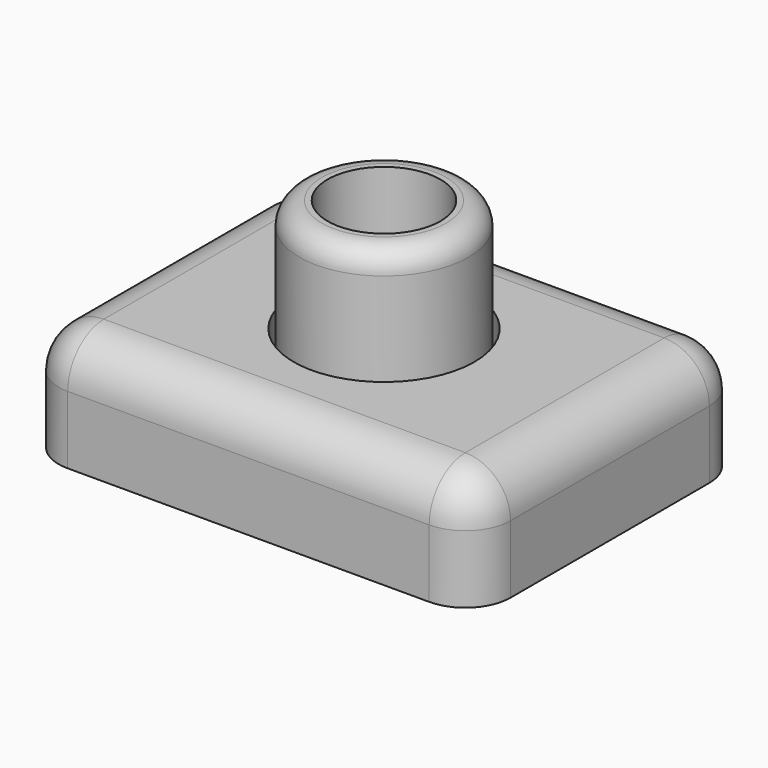
from build123d import *

# Parameters (mm, degrees)
F0_W     = 50.8
F0_H     = 38.1
F0_R     = 10.16
F1_DEPTH = 12.7
F0_R_2   = 9.525
F2_DEPTH = 25.4
F3_R     = 5.08
F4_R     = 2.54
F5_R     = 5.08
F6_T     = -1.27
F7_R     = 2.54
F8_R     = 6.35
F9_DEPTH = 25.401


with BuildPart() as f1:
    # F0 (on Top) → F1 (new body)
    with BuildSketch(Plane.XY):
        Rectangle(F0_W, F0_H)
        Circle(F0_R, mode=Mode.SUBTRACT)
    extrude(amount=F1_DEPTH)

    # F3
    f3_edges = [f1.edges().sort_by_distance(p)[0] for p in [
        (25.4, -19.05, 6.35),
        (25.4, 19.05, 6.35),
        (-25.4, -19.05, 6.35),
        (-25.4, 19.05, 6.35),
    ]]
    fillet(f3_edges, radius=F3_R)

    # F5
    f5_edges = [f1.edges().sort_by_distance(p)[0] for p in [
        (25.4, 0, 12.7),
    ]]
    fillet(f5_edges, radius=F5_R)

    # F6
    f6_openings = [f1.faces().sort_by_distance(p)[0] for p in [
        (0, -18.415, 0),
    ]]
    offset(amount=F6_T, openings=f6_openings)

    # F7
    f7_edges = [f1.edges().sort_by_distance(p)[0] for p in [
        (-11.43, 0, 11.43),
    ]]
    fillet(f7_edges, radius=F7_R)


with BuildPart() as f2:
    # F0 (on Top) → F2 (new body)
    with BuildSketch(Plane.XY):
        Circle(F0_R_2)
    extrude(amount=F2_DEPTH)

    # F4
    f4_edges = [f2.edges().sort_by_distance(p)[0] for p in [
        (-9.525, 0, 25.4),
    ]]
    fillet(f4_edges, radius=F4_R)

    # F8 (on face) → F9 (cut, through all)
    with BuildSketch(Plane.XY.offset(25.4)):
        Circle(F8_R)
    extrude(amount=-F9_DEPTH, mode=Mode.SUBTRACT)


solid = Compound([f1.part, f2.part])
